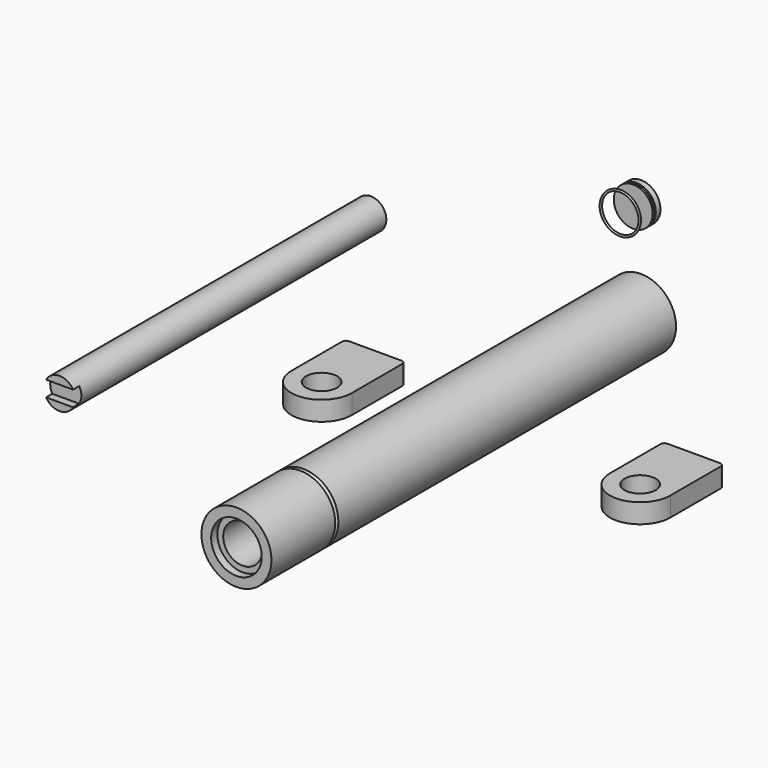
from build123d import *

# Parameters (mm, degrees)
F0_R      = 4
F1_DEPTH  = 100
F2_R      = 9
F3_DEPTH  = 130
F4_R      = 4
F5_DEPTH  = 2.5
F6_R      = 1
F7_R      = 1
F8_R      = 0.5
F11_DEPTH = 2
F12_R     = 6.5
F13_DEPTH = 2
F14_R     = 5
F15_DEPTH = 100
F18_R     = 0.25


with BuildPart() as f1:
    # F0 (on Front) → F1 (new body)
    with BuildSketch(Plane.XZ):
        with Locations((-69.4670304656, 0)):
            Circle(F0_R)
    extrude(amount=F1_DEPTH)

    # F10 (on face) → F11 (cut)
    with BuildSketch(Plane.XZ.offset(100)):
        with BuildLine():
            Line((-66.0029288505, 2), (-72.9311320807, 2))
            ThreePointArc((-72.9311320807, 2), (-73.4670304656, 0), (-72.9311320807, -2))
            Line((-72.9311320807, -2), (-66.0029288505, -2))
            ThreePointArc((-66.0029288505, -2), (-65.6033271604, -1.0352761804), (-65.4670304656, 0))
            ThreePointArc((-65.4670304656, 0), (-65.6033271604, 1.0352761804), (-66.0029288505, 2))
        make_face()
    extrude(amount=-F11_DEPTH, mode=Mode.SUBTRACT)


with BuildPart() as f3:
    # F2 (on Front) → F3 (new body)
    with BuildSketch(Plane.XZ):
        Circle(F2_R)
    extrude(amount=F3_DEPTH)

    # F8 (on Right) → F9 (revolve, cut)
    with BuildSketch(Plane.YZ):
        with Locations((-109, 9)):
            Circle(F8_R)
    revolve(axis=Axis((0, 0, 0), (0, 1, 0)), mode=Mode.SUBTRACT)

    # F12 (on face) → F13 (cut)
    with BuildSketch(Plane.XZ.offset(130)):
        Circle(F12_R)
    extrude(amount=-F13_DEPTH, mode=Mode.SUBTRACT)

    # F14 (on face) → F15 (cut)
    with BuildSketch(Plane.XZ.offset(128)):
        Circle(F14_R)
    extrude(amount=-F15_DEPTH, mode=Mode.SUBTRACT)


with BuildPart() as f5:
    # F4 (on Top) → F5 (new body, symmetric)
    with BuildSketch(Plane.XY):
        with BuildLine():
            ThreePointArc((-36.2813571053, -66.9634986102), (-28.5313571053, -74.7134986102), (-20.7813571053, -66.9634986102))
            ThreePointArc((-20.7813571053, -66.9634986102), (-28.5313571053, -59.2134986102), (-36.2813571053, -66.9634986102))
        make_face()
        with Locations((-28.5313571053, -66.9634986102)):
            Circle(F4_R, mode=Mode.SUBTRACT)
        with BuildLine():
            ThreePointArc((-36.2813571053, -66.9634986102), (-28.5313571053, -59.2134986102), (-20.7813571053, -66.9634986102))
            Line((-20.7813571053, -66.9634986102), (-20.7813571053, -49.7134986102))
            Line((-20.7813571053, -49.7134986102), (-36.2813571053, -49.7134986102))
            Line((-36.2813571053, -49.7134986102), (-36.2813571053, -66.9634986102))
        make_face()
    extrude(amount=F5_DEPTH, both=True)

    # F6
    f6_edges = [f5.edges().sort_by_distance(p)[0] for p in [
        (-20.781357, -49.713499, 0),
        (-36.281357, -49.713499, 0),
    ]]
    fillet(f6_edges, radius=F6_R)


with BuildPart() as f5b:
    # F4 (on Top) → F5, piece 2 (new body, symmetric)
    with BuildSketch(Plane.XY):
        with BuildLine():
            ThreePointArc((41.4677829146, -61.8117736518), (49.2177829146, -69.5617736518), (56.9677829146, -61.8117736518))
            ThreePointArc((56.9677829146, -61.8117736518), (49.2177829146, -54.0617736518), (41.4677829146, -61.8117736518))
        make_face()
        with Locations((49.2177829146, -61.8117736518)):
            Circle(F4_R, mode=Mode.SUBTRACT)
        with BuildLine():
            ThreePointArc((41.4677829146, -61.8117736518), (49.2177829146, -54.0617736518), (56.9677829146, -61.8117736518))
            Line((56.9677829146, -61.8117736518), (56.9677829146, -44.5617736518))
            Line((56.9677829146, -44.5617736518), (41.4677829146, -44.5617736518))
            Line((41.4677829146, -44.5617736518), (41.4677829146, -61.8117736518))
        make_face()
    extrude(amount=F5_DEPTH, both=True)

    # F7
    f7_edges = [f5b.edges().sort_by_distance(p)[0] for p in [
        (41.467783, -44.561774, 0),
        (56.967783, -44.561774, 0),
    ]]
    fillet(f7_edges, radius=F7_R)


with BuildPart() as f17:
    # F16 (on Right) → F17 (revolve)
    with BuildSketch(Plane.YZ):
        Polygon((-2.5, 25.2354628294), (0, 25.2354628294), (0, 30.2354628294), (-1.5, 30.2354628294), (-1.5, 29.7354628294), (-2, 29.7354628294), (-2, 30.2354628294), (-2.5, 30.2354628294), align=None)
    revolve(axis=Axis((0, -1.25, 25.2354628294), (0, 1, 0)))


with BuildPart() as f19:
    # F18 (on Right) → F19 (revolve)
    with BuildSketch(Plane.YZ):
        with Locations((-6.6581582472, 30.4714779809)):
            Circle(F18_R)
    revolve(axis=Axis((0, -7.2035943158, 25.4714779809), (0, -1, 0)))


solid = Compound([f1.part, f3.part, f5.part, f5b.part, f17.part, f19.part])
